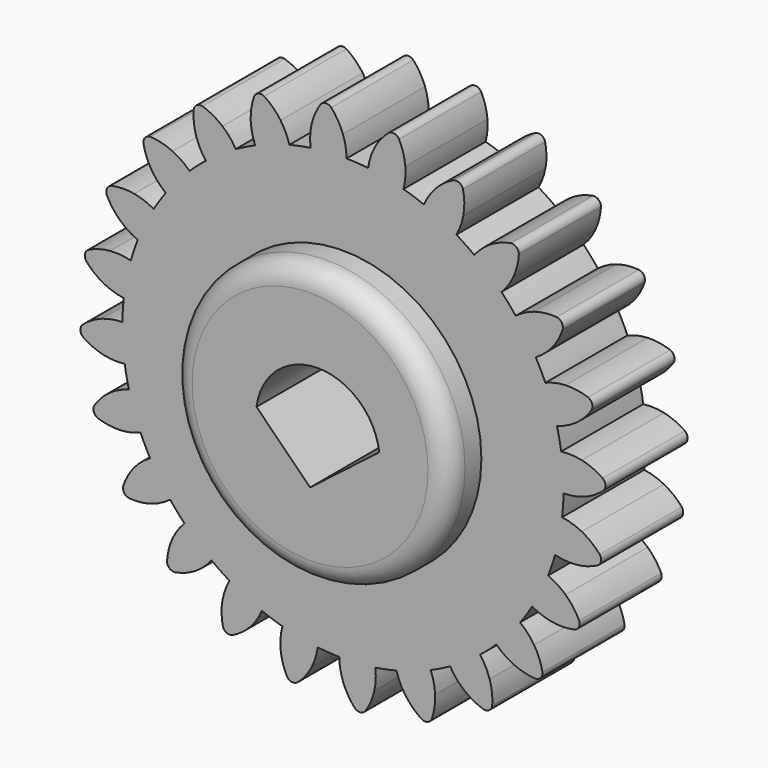
from build123d import *

# Parameters (mm, degrees)
F1_DEPTH = 25
F2_COUNT = 24
F3_R     = 33.719961781
F4_DEPTH = 10
F5_DEPTH = 25
F6_R     = 5


with BuildPart() as f1:
    # F0 (on Front) → F1 (new body)
    with BuildSketch(Plane.XZ):
        with BuildLine():
            ThreePointArc((-7.8842675869, 53.139290225), (-35.0884247435, -40.6785974441), (53.721, 0))
            ThreePointArc((53.721, 0), (38.2966086664, 37.6738052983), (0.8807473744, 53.7137796572))
            ThreePointArc((0.8807473744, 53.7137796572), (-3.5135215054, 53.6059792153), (-7.8842675869, 53.139290225))
        make_face()
        with BuildLine():
            ThreePointArc((-7.8842675869, 53.139290225), (-3.5135215054, 53.6059792153), (0.8807473744, 53.7137796572))
            ThreePointArc((0.8807473744, 53.7137796572), (0.6539513303, 56.2318131335), (0, 58.674))
            ThreePointArc((0, 58.674), (-1.20143465, 61.1909038626), (-2.8564405638, 63.4357213824))
            ThreePointArc((-2.8564405638, 63.4357213824), (-4.1900644741, 63.9280302589), (-5.448019844, 63.2658603022))
            ThreePointArc((-5.448019844, 63.2658603022), (-6.7958594697, 60.8242258875), (-7.6584938023, 58.1720357962))
            ThreePointArc((-7.6584938023, 58.1720357962), (-7.988081136, 55.6653843999), (-7.8842675869, 53.139290225))
        make_face()
    extrude(amount=F1_DEPTH)

    # F2: F1 ×24 about axis
    f2_axis = Axis((0, 0, 0), (0, 1, 0))


with BuildPart() as f1_1:
    add(f1.part)
    for i in range(1, F2_COUNT):
        add(f1.part.rotate(f2_axis, i * 360 / F2_COUNT))

    # F3 (on face) → F4 (join, symmetric)
    with BuildSketch(Plane.XZ.offset(25)):
        Circle(F3_R)
        with BuildLine():
            ThreePointArc((-13.0395349115, 0), (1.904652454, 13.1798493497), (16.8488398194, 0))
            Line((16.8488398194, 0), (0, -13.0395386368))
            Line((0, -13.0395386368), (-13.0395349115, 0))
        make_face(mode=Mode.SUBTRACT)
    extrude(amount=F4_DEPTH, both=True)

    # F5 (cut, symmetric): a face of the model
    f5_faces = [f1_1.faces().sort_by_distance(p)[0] for p in [
        (1.6545556434, -25, 1.6447535926),
    ]]
    extrude(f5_faces, amount=F5_DEPTH, both=True, mode=Mode.SUBTRACT)

    # F6
    f6_edges = [f1_1.edges().sort_by_distance(p)[0] for p in [
        (-33.719962, -35, 0),
    ]]
    fillet(f6_edges, radius=F6_R)


solid = f1_1.part
